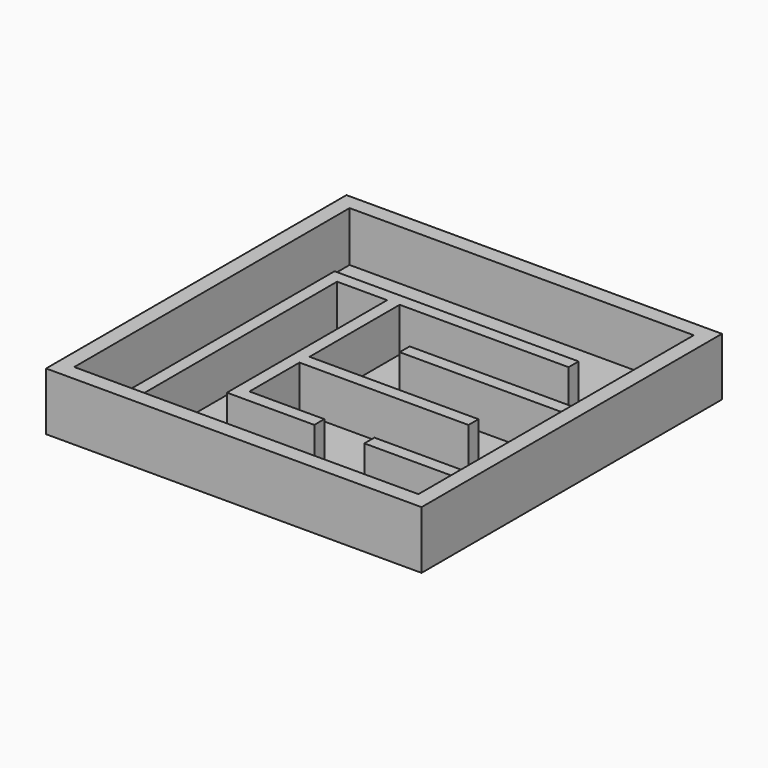
from build123d import *

# Parameters (mm, degrees)
F0_W     = 38.1
F0_H     = 38.1
F1_DEPTH = 0.79375
F2_W     = 38.1
F2_H     = 38.1
F2_W_2   = 34.925
F2_H_2   = 34.925
F3_DEPTH = 5.08
F4_W     = 17.145
F4_H     = 1.27
F4_W_2   = 9.5498631887
F5_DEPTH = 4.445
F4_R     = 1.27
F6_DEPTH = 0.396875


with BuildPart() as f1:
    # F0 (on Top) → F1 (new body)
    with BuildSketch(Plane.XY):
        with Locations((6.1000548303, -3.6594523599)):
            Rectangle(F0_W, F0_H)
    extrude(amount=F1_DEPTH)

    # F2 (on face) → F3 (join)
    with BuildSketch(Plane.XY.offset(0.79375)):
        with Locations((6.1000548303, -3.6594523599)):
            Rectangle(F2_W, F2_H)
        with Locations((6.1000548303, -3.6594523599)):
            Rectangle(F2_W_2, F2_H_2, mode=Mode.SUBTRACT)
    extrude(amount=F3_DEPTH)

    # F4 (on face) → F5 (join)
    with BuildSketch(Plane.XY.offset(0.79375)):
        Polygon((-6.2824451697, 5.5480476401), (-6.2824451697, -21.1219523599), (-5.0124451697, -21.1219523599), (-5.0124451697, 4.2780476401), (0.0675548303, 4.2780476401), (0.0675548303, -16.0419523599), (8.9326916416, -16.0419523599), (8.9326916416, -14.7719523599), (1.3375548303, -14.7719523599), (1.3375548303, -8.4219523599), (18.4825548303, -8.4219523599), (18.4825548303, -7.1519523599), (1.3375548303, -7.1519523599), (1.3375548303, 4.2780476401), (18.4825548303, 4.2780476401), (18.4825548303, 5.5480476401), (-5.0124451697, 5.5480476401), align=None)
        with Locations((14.9900548303, -1.4369523599)):
            Rectangle(F4_W, F4_H)
        with Locations((18.787623236, -15.4069523599)):
            Rectangle(F4_W_2, F4_H)
    extrude(amount=F5_DEPTH)

    # F4 (on face) → F6 (cut)
    with BuildSketch(Plane.XY.offset(0.79375)):
        with Locations((-8.8224451697, -17.4266919494)):
            Circle(F4_R)
        with Locations((-2.4724451697, 1.2010911014)):
            Circle(F4_R)
    extrude(amount=-F6_DEPTH, mode=Mode.SUBTRACT)


solid = f1.part
